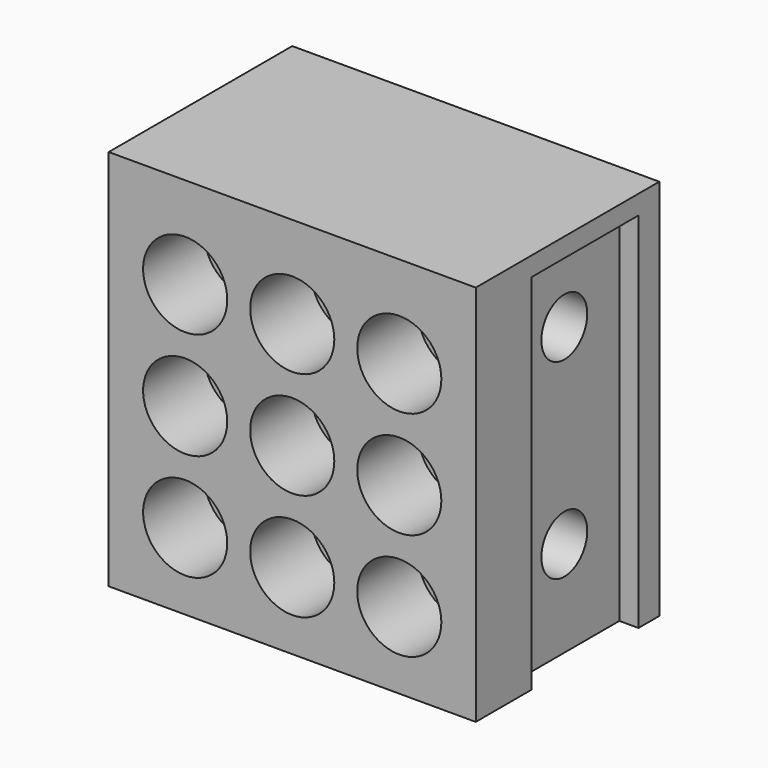
from build123d import *

# Parameters (mm, degrees)
F0_W     = 30.48
F0_H     = 31.75
F0_R     = 3.4925
F1_DEPTH = 6.35
F2_W     = 30.48
F2_H     = 31.75
F3_DEPTH = 12.7
F4_W     = 11.1125
F4_H     = 30.1625
F5_DEPTH = 1.5875
F6_W     = 11.43
F6_H     = 30.1625
F7_DEPTH = 1.5875
F8_R     = 2.38125
F9_DEPTH = 28.8935


with BuildPart() as f1:
    # F0 (on Front) → F1 (new body)
    with BuildSketch(Plane.XZ):
        with Locations((-15.24, 15.875)):
            Rectangle(F0_W, F0_H)
        with Locations((-24.13, 6.35)):
            Circle(F0_R, mode=Mode.SUBTRACT)
        with Locations((-24.13, 15.24)):
            Circle(F0_R, mode=Mode.SUBTRACT)
        with Locations((-15.24, 6.35)):
            Circle(F0_R, mode=Mode.SUBTRACT)
        with Locations((-6.35, 6.35)):
            Circle(F0_R, mode=Mode.SUBTRACT)
        with Locations((-15.24, 15.24)):
            Circle(F0_R, mode=Mode.SUBTRACT)
        with Locations((-6.35, 15.24)):
            Circle(F0_R, mode=Mode.SUBTRACT)
        with Locations((-24.13, 24.13)):
            Circle(F0_R, mode=Mode.SUBTRACT)
        with Locations((-15.24, 24.13)):
            Circle(F0_R, mode=Mode.SUBTRACT)
        with Locations((-6.35, 24.13)):
            Circle(F0_R, mode=Mode.SUBTRACT)
    extrude(amount=F1_DEPTH)

    # F2 (on face) → F3 (join)
    with BuildSketch(Plane(origin=(0, 0, 0), x_dir=(-1, 0, 0), z_dir=(0, 1, 0))):
        with Locations((15.24, 15.875)):
            Rectangle(F2_W, F2_H)
    extrude(amount=F3_DEPTH)

    # F4 (on face) → F5 (cut)
    with BuildSketch(Plane.YZ):
        with Locations((4.98475, 15.08125)):
            Rectangle(F4_W, F4_H)
    extrude(amount=-F5_DEPTH, mode=Mode.SUBTRACT)

    # F6 (on face) → F7 (cut)
    with BuildSketch(Plane(origin=(-30.48, 0, 0), x_dir=(0, -1, 0), z_dir=(-1, 0, 0))):
        with Locations((-4.826, 15.08125)):
            Rectangle(F6_W, F6_H)
    extrude(amount=-F7_DEPTH, mode=Mode.SUBTRACT)

    # F8 (on face) → F9 (cut, through all)
    with BuildSketch(Plane(origin=(-28.8925, 0, 0), x_dir=(0, -1, 0), z_dir=(-1, 0, 0))):
        with Locations((-4.826, 23.8125)):
            Circle(F8_R)
        with Locations((-4.826, 7.9375)):
            Circle(F8_R)
    extrude(amount=-F9_DEPTH, mode=Mode.SUBTRACT)


solid = f1.part
